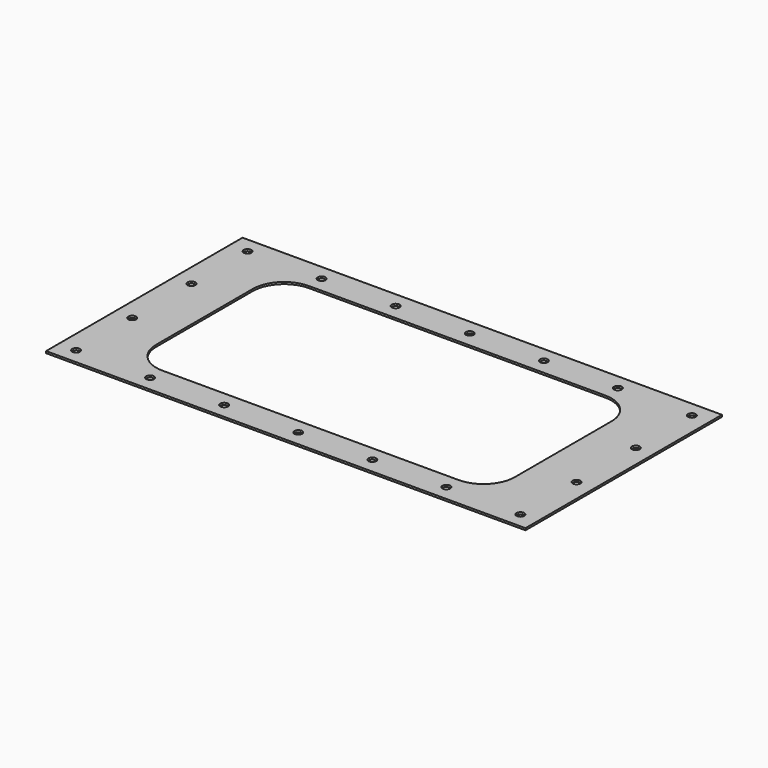
from build123d import *

# Parameters (mm, degrees)
F0_W     = 781.05
F0_H     = 400.05
F0_R     = 6.35
F1_DEPTH = 3.175


with BuildPart() as f1:
    # F0 (on Top) → F1 (new body)
    with BuildSketch(Plane.XY):
        with Locations((390.525, 200.025)):
            Rectangle(F0_W, F0_H)
        with Locations((28.575, 25.4)):
            Circle(F0_R, mode=Mode.SUBTRACT)
        with Locations((149.225, 25.4)):
            Circle(F0_R, mode=Mode.SUBTRACT)
        with Locations((269.875, 25.4)):
            Circle(F0_R, mode=Mode.SUBTRACT)
        with Locations((28.575, 139.7)):
            Circle(F0_R, mode=Mode.SUBTRACT)
        with Locations((390.525, 25.4)):
            Circle(F0_R, mode=Mode.SUBTRACT)
        with Locations((511.175, 25.4)):
            Circle(F0_R, mode=Mode.SUBTRACT)
        with Locations((631.825, 25.4)):
            Circle(F0_R, mode=Mode.SUBTRACT)
        with Locations((752.475, 25.4)):
            Circle(F0_R, mode=Mode.SUBTRACT)
        with BuildLine():
            Line((631.825, 50.412805), (149.225, 50.412805))
            ThreePointArc((149.225, 50.412805), (113.303976, 65.29178), (98.425, 101.212805))
            Line((98.425, 101.212805), (98.425, 298.062805))
            ThreePointArc((98.425, 298.062805), (113.303976, 333.983829), (149.225, 348.862805))
            Line((149.225, 348.862805), (631.825, 348.862805))
            ThreePointArc((631.825, 348.862805), (667.746024, 333.983829), (682.625, 298.062805))
            Line((682.625, 298.062805), (682.625, 101.212805))
            ThreePointArc((682.625, 101.212805), (667.746024, 65.29178), (631.825, 50.412805))
        make_face(mode=Mode.SUBTRACT)
        with Locations((752.475, 139.7)):
            Circle(F0_R, mode=Mode.SUBTRACT)
        with Locations((28.575, 260.35)):
            Circle(F0_R, mode=Mode.SUBTRACT)
        with Locations((28.575, 374.65)):
            Circle(F0_R, mode=Mode.SUBTRACT)
        with Locations((149.225, 374.65)):
            Circle(F0_R, mode=Mode.SUBTRACT)
        with Locations((269.875, 374.65)):
            Circle(F0_R, mode=Mode.SUBTRACT)
        with Locations((752.475, 260.35)):
            Circle(F0_R, mode=Mode.SUBTRACT)
        with Locations((390.525, 374.65)):
            Circle(F0_R, mode=Mode.SUBTRACT)
        with Locations((511.175, 374.65)):
            Circle(F0_R, mode=Mode.SUBTRACT)
        with Locations((631.825, 374.65)):
            Circle(F0_R, mode=Mode.SUBTRACT)
        with Locations((752.475, 374.65)):
            Circle(F0_R, mode=Mode.SUBTRACT)
    extrude(amount=F1_DEPTH)


solid = f1.part
